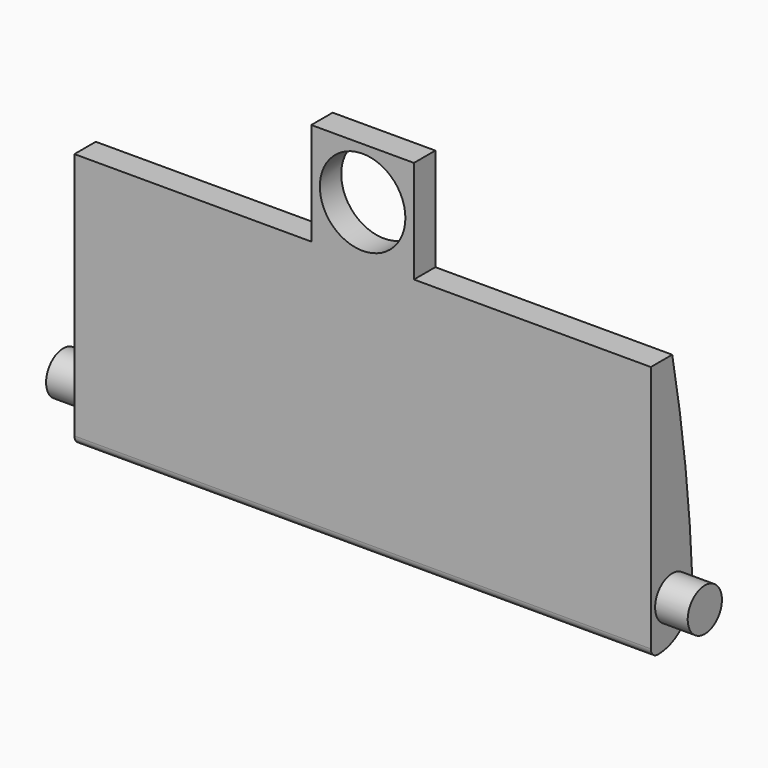
from build123d import *

# Parameters (mm, degrees)
F2_DEPTH = 3.125
F1_W     = 12
F1_H     = 12
F1_R     = 5
F3_DEPTH = 3.125
F4_R     = 2.5
F6_DEPTH = 3.81
F5_R     = 2.5
F7_DEPTH = 3.81
F8_DEPTH = 67.38
F9_R     = 5
F10_R    = 1


with BuildPart() as f2:
    # F1 (on Front) → F2 (new body, symmetric)
    with BuildSketch(Plane.XZ):
        Polygon((-6, 15), (-33.69, 15), (-33.69, -15), (33.69, -15), (33.69, 15), (6, 15), align=None)
    extrude(amount=F2_DEPTH, both=True)

    # F1 (on Front) → F3 (join, through all)
    with BuildSketch(Plane.XZ):
        with Locations((0, 21)):
            Rectangle(F1_W, F1_H)
        with Locations((0, 21)):
            Circle(F1_R, mode=Mode.SUBTRACT)
    extrude(amount=F3_DEPTH)

    # F4 (on face) → F6 (join)
    with BuildSketch(Plane.YZ.offset(33.69)):
        with Locations((0, -10)):
            Circle(F4_R)
    extrude(amount=F6_DEPTH)

    # F5 (on face) → F7 (join)
    with BuildSketch(Plane(origin=(-33.69, 0, 0), x_dir=(0, -1, 0), z_dir=(-1, 0, 0))):
        with Locations((0, -10)):
            Circle(F5_R)
    extrude(amount=F7_DEPTH)

    # F4 (on face) → F8 (cut, through all)
    with BuildSketch(Plane.YZ.offset(33.69)):
        with BuildLine():
            ThreePointArc((0, 15), (2.2291595567, 0.0694437038), (3.125, -15))
            Line((3.125, -15), (3.125, 15))
            Line((3.125, 15), (0, 15))
        make_face()
    extrude(amount=-F8_DEPTH, mode=Mode.SUBTRACT)

    # F9
    f9_edges = [f2.edges().sort_by_distance(p)[0] for p in [
        (0, 3.125, -15),
    ]]
    fillet(f9_edges, radius=F9_R)

    # F10
    f10_edges = [f2.edges().sort_by_distance(p)[0] for p in [
        (0, -3.125, -15),
    ]]
    fillet(f10_edges, radius=F10_R)


solid = f2.part
